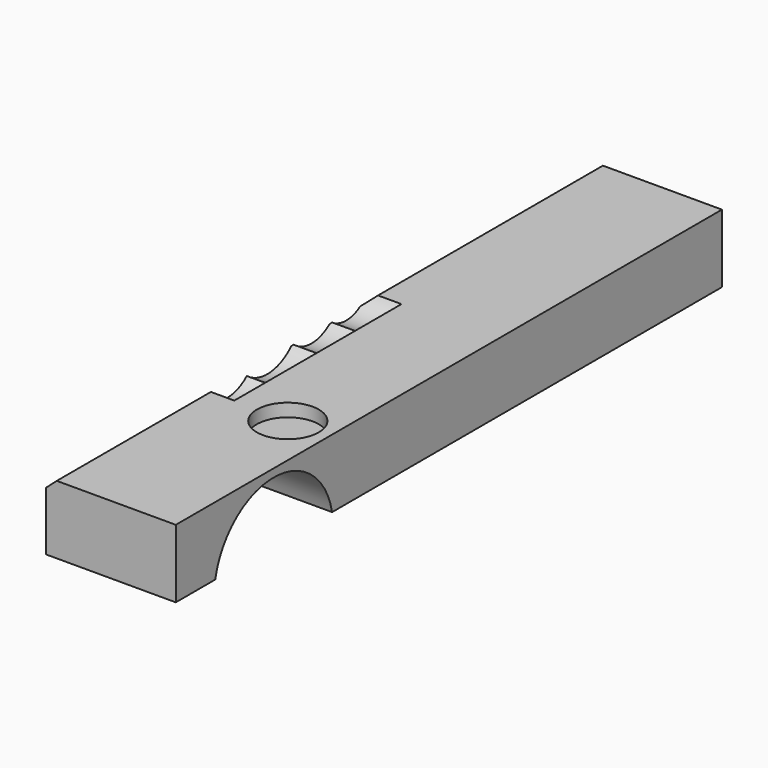
from build123d import *

# Parameters (mm, degrees)
F0_W     = 200
F0_H     = 20
F1_DEPTH = 38
F2_R     = 21.793090142
F3_DEPTH = 90
F5_DEPTH = 10
F6_R     = 9.0643869575
F7_DEPTH = 30
F9_DEPTH = 500


with BuildPart() as f1:
    # F0 (on Right) → F1 (new body)
    with BuildSketch(Plane.YZ):
        with Locations((37.7075445842, -36.2104274062)):
            Rectangle(F0_W, F0_H)
    extrude(amount=F1_DEPTH)

    # F2 (on Right) → F3 (cut)
    with BuildSketch(Plane.YZ):
        with Locations((-26.4385696501, -50.3528229892)):
            Circle(F2_R)
    extrude(amount=F3_DEPTH, mode=Mode.SUBTRACT)

    # F4 (on Right) → F5 (cut)
    with BuildSketch(Plane.YZ):
        with BuildLine():
            ThreePointArc((11.2052927819, -30.0548411677), (13.8513494477, -26.4329954922), (14.787788926, -22.0463722944))
            ThreePointArc((14.787788926, -22.0463722944), (13.3069508893, -16.6036806846), (9.2726999384, -12.6615248637))
            ThreePointArc((9.2726999384, -12.6615248637), (6.5794975023, -21.7647944508), (11.2052927819, -30.0548411677))
        make_face()
        with BuildLine():
            ThreePointArc((9.2726999384, -12.6615248637), (13.3069508893, -16.6036806846), (14.787788926, -22.0463722944))
            ThreePointArc((14.787788926, -22.0463722944), (13.8513494477, -26.4329954922), (11.2052927819, -30.0548411677))
            ThreePointArc((11.2052927819, -30.0548411677), (19.8066220011, -32.6052268486), (27.8363086721, -28.6037941775))
            ThreePointArc((27.8363086721, -28.6037941775), (24.3564768067, -20.5394542894), (28.1950566672, -12.6395737651))
            ThreePointArc((28.1950566672, -12.6395737651), (18.7286864775, -8.1750752909), (9.2726999384, -12.6615248637))
        make_face()
        with BuildLine():
            ThreePointArc((11.2052927819, -30.0548411677), (6.5794975023, -21.7647944508), (9.2726999384, -12.6615248637))
            ThreePointArc((9.2726999384, -12.6615248637), (-6.6314854274, -23.2326830707), (11.2052927819, -30.0548411677))
        make_face()
        with BuildLine():
            ThreePointArc((42.792336068, -13.8019084932), (35.7285589591, -10.2711993263), (28.1950566672, -12.6395737651))
            ThreePointArc((28.1950566672, -12.6395737651), (30.2635700166, -16.2843509129), (30.9811221322, -20.4133056104))
            ThreePointArc((30.9811221322, -20.4133056104), (30.1678997374, -24.800045706), (27.8363086721, -28.6037941775))
            ThreePointArc((27.8363086721, -28.6037941775), (34.8911306198, -31.3144718481), (41.9464400799, -28.6050633204))
            ThreePointArc((41.9464400799, -28.6050633204), (38.534072164, -20.984324628), (42.792336068, -13.8019084932))
        make_face()
        with BuildLine():
            ThreePointArc((30.9811221322, -20.4133056104), (30.2635700166, -16.2843509129), (28.1950566672, -12.6395737651))
            ThreePointArc((28.1950566672, -12.6395737651), (24.3564768067, -20.5394542894), (27.8363086721, -28.6037941775))
            ThreePointArc((27.8363086721, -28.6037941775), (30.1678997374, -24.800045706), (30.9811221322, -20.4133056104))
        make_face()
        with BuildLine():
            ThreePointArc((56.6680879545, -21.5020179749), (51.9968309101, -13.5674704697), (42.792336068, -13.8019084932))
            ThreePointArc((42.792336068, -13.8019084932), (44.7488004803, -17.0479416086), (45.430340027, -20.7762103528))
            ThreePointArc((45.430340027, -20.7762103528), (44.5200498141, -25.0607318438), (41.9464400799, -28.6050633204))
            ThreePointArc((41.9464400799, -28.6050633204), (51.5369946086, -29.674841375), (56.6680879545, -21.5020179749))
        make_face()
        with BuildLine():
            ThreePointArc((45.430340027, -20.7762103528), (44.7488004803, -17.0479416086), (42.792336068, -13.8019084932))
            ThreePointArc((42.792336068, -13.8019084932), (38.534072164, -20.984324628), (41.9464400799, -28.6050633204))
            ThreePointArc((41.9464400799, -28.6050633204), (44.5200498141, -25.0607318438), (45.430340027, -20.7762103528))
        make_face()
    extrude(amount=F5_DEPTH, mode=Mode.SUBTRACT)

    # F6 (on Top) → F7 (cut)
    with BuildSketch(Plane.XY):
        with Locations((25.8594062179, -6.084471941)):
            Circle(F6_R)
    extrude(amount=-F7_DEPTH, mode=Mode.SUBTRACT)

    # F8 (on Front) → F9 (cut, symmetric)
    with BuildSketch(Plane.XZ):
        Polygon((-0.5932430504, -29.512187466), (3.8069577422, -25.6109777838), (-0.5932430504, -25.7017035037), align=None)
    extrude(amount=F9_DEPTH, both=True, mode=Mode.SUBTRACT)


solid = f1.part
